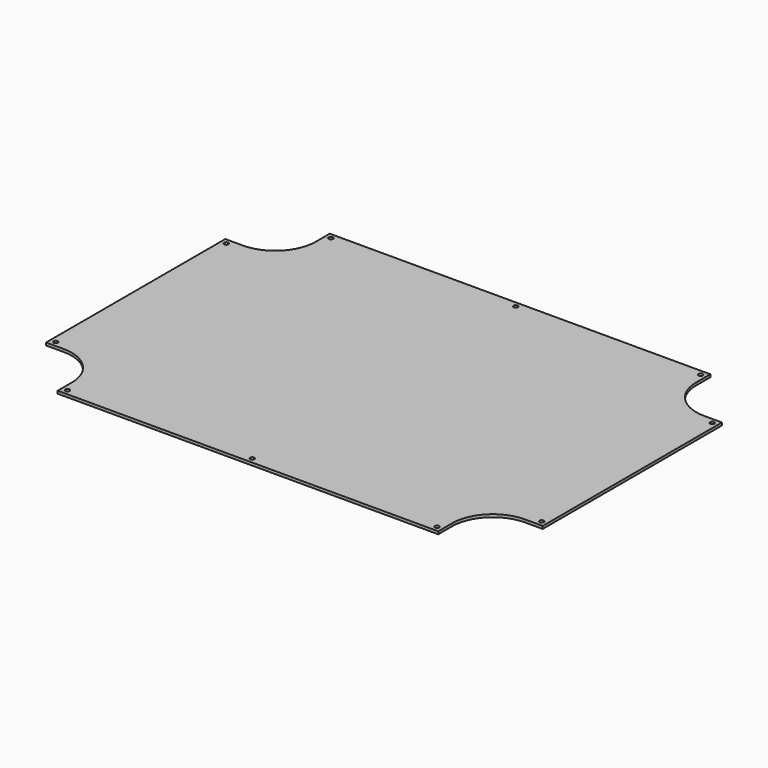
from build123d import *

# Parameters (mm, degrees)
F0_R     = 1.6
F1_DEPTH = 2


with BuildPart() as f1:
    # F0 (on Top) → F1 (new body)
    with BuildSketch(Plane.XY):
        with BuildLine():
            Line((141, 126), (-141, 126))
            Line((-141, 126), (-141, 113))
            ThreePointArc((-141, 113), (-149.786797, 91.786797), (-171, 83))
            Line((-171, 83), (-184, 83))
            Line((-184, 83), (-184, -83))
            Line((-184, -83), (-171, -83))
            ThreePointArc((-171, -83), (-149.786797, -91.786797), (-141, -113))
            Line((-141, -113), (-141, -126))
            Line((-141, -126), (141, -126))
            Line((141, -126), (141, -113))
            ThreePointArc((141, -113), (149.786797, -91.786797), (171, -83))
            Line((171, -83), (184, -83))
            Line((184, -83), (184, 83))
            Line((184, 83), (171, 83))
            ThreePointArc((171, 83), (149.786797, 91.786797), (141, 113))
            Line((141, 113), (141, 126))
        make_face()
        with Locations((-137, -122)):
            Circle(F0_R, mode=Mode.SUBTRACT)
        with Locations((-180, -79)):
            Circle(F0_R, mode=Mode.SUBTRACT)
        with Locations((0, -122)):
            Circle(F0_R, mode=Mode.SUBTRACT)
        with Locations((137, -122)):
            Circle(F0_R, mode=Mode.SUBTRACT)
        with Locations((180, -79)):
            Circle(F0_R, mode=Mode.SUBTRACT)
        with Locations((-180, 79)):
            Circle(F0_R, mode=Mode.SUBTRACT)
        with Locations((-137, 122)):
            Circle(F0_R, mode=Mode.SUBTRACT)
        with Locations((0, 122)):
            Circle(F0_R, mode=Mode.SUBTRACT)
        with Locations((180, 79)):
            Circle(F0_R, mode=Mode.SUBTRACT)
        with Locations((137, 122)):
            Circle(F0_R, mode=Mode.SUBTRACT)
    extrude(amount=F1_DEPTH)


solid = f1.part
